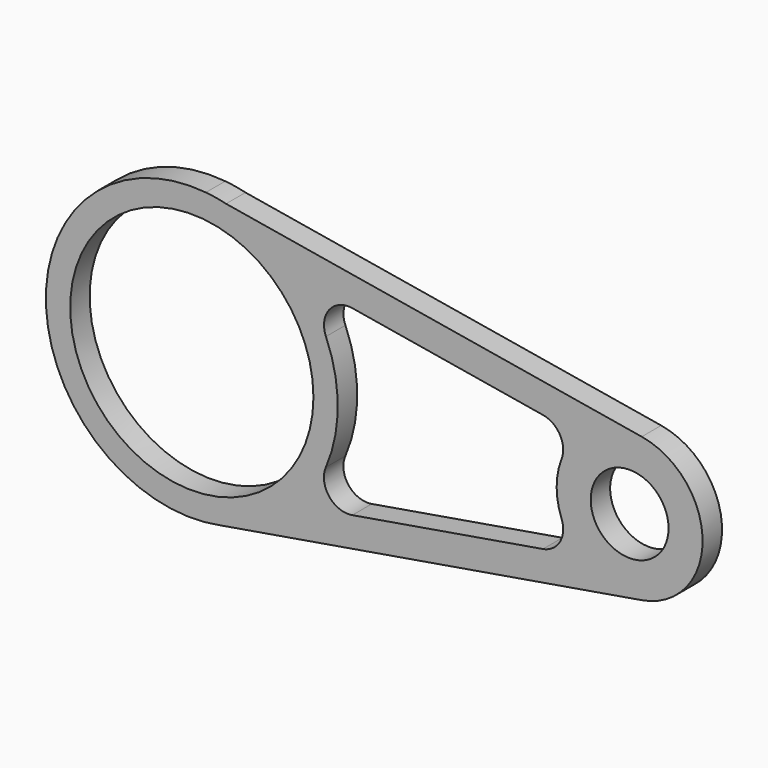
from build123d import *

# Parameters (mm, degrees)
F0_R     = 25
F0_R_2   = 8
F1_DEPTH = 5


with BuildPart() as f1:
    # F0 (on Front) → F1 (new body)
    with BuildSketch(Plane.XZ):
        with BuildLine():
            Line((2.888273, 29.860641), (7.037978, 29.162765))
            ThreePointArc((7.037978, 29.162765), (4.975377, 29.584551), (2.888273, 29.860641))
        make_face()
        with BuildLine():
            Line((92.487688, 14.792275), (7.037978, 29.162765))
            Line((7.037978, 29.162765), (2.888273, 29.860641))
            ThreePointArc((2.888273, 29.860641), (-29.958665, -1.5743), (6.002022, -29.393464))
            Line((6.002022, -29.393464), (92.49708, -14.790693))
            ThreePointArc((92.49708, -14.790693), (104.999999, 0.004762), (92.487688, 14.792275))
        make_face()
        with BuildLine():
            ThreePointArc((27.576515, 11.812529), (28.24219, 16.871895), (33.00183, 18.712042))
            Line((33.00183, 18.712042), (72.168065, 12.125267))
            ThreePointArc((72.168065, 12.125267), (75.682636, 9.670676), (76.004127, 5.395882))
            ThreePointArc((76.004127, 5.395882), (75.000001, -0.004762), (76.007556, -5.404768))
            ThreePointArc((76.007556, -5.404768), (75.688779, -9.679765), (72.175768, -12.136588))
            Line((72.175768, -12.136588), (32.987291, -18.752693))
            ThreePointArc((32.987291, -18.752693), (28.223524, -16.911805), (27.561369, -11.847824))
            ThreePointArc((27.561369, -11.847824), (29.999994, -0.019204), (27.576515, 11.812529))
        make_face(mode=Mode.SUBTRACT)
        Circle(F0_R, mode=Mode.SUBTRACT)
        with Locations((90, 0)):
            Circle(F0_R_2, mode=Mode.SUBTRACT)
    extrude(amount=F1_DEPTH)


solid = f1.part
